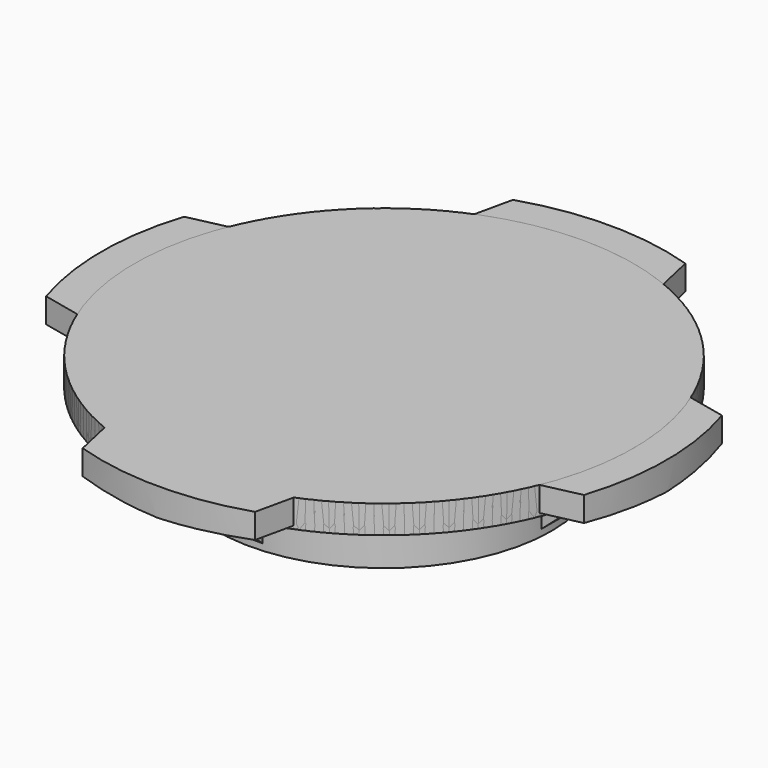
from build123d import *

# Parameters (mm, degrees)
F1_DEPTH   = 1.75
F2_R       = 10.5
F3_DEPTH   = 4.5
F4_SIZE2   = 5
F4_SIZE    = 0.2
F4_2_SIZE2 = 5
F4_2_SIZE  = 0.2
F6_DEPTH   = 0.75
F7_COUNT   = 4
F8_COUNT   = 4


with BuildPart() as f1:
    # F0 (on Top) → F1 (new body)
    with BuildSketch(Plane.XY):
        with BuildLine():
            ThreePointArc((14.4847600256, -5.9257258628), (15.3559271032, -3.0196030865), (15.65, 0))
            ThreePointArc((15.65, 0), (15.3559271032, 3.0196030865), (14.4847600256, 5.9257258628))
            ThreePointArc((14.4847600256, 5.9257258628), (-15.65, 0), (14.4847600256, -5.9257258628))
        make_face()
        with BuildLine():
            ThreePointArc((14.4847600256, 5.9257258628), (15.3559271032, 3.0196030865), (15.65, 0))
            ThreePointArc((15.65, 0), (15.3559271032, -3.0196030865), (14.4847600256, -5.9257258628))
            Line((14.4847600256, -5.9257258628), (16.8561561455, -5.4))
            ThreePointArc((16.8561561455, -5.4), (17.7, 0), (16.8561561455, 5.4))
            Line((16.8561561455, 5.4), (14.4847600256, 5.9257258628))
        make_face()
    extrude(amount=F1_DEPTH)

    # F4
    f4_edges = [f1.edges().sort_by_distance(p)[0] for p in [
        (15.670458, 5.662863, 0),
    ]]
    f4_side = f1.faces().sort_by_distance((15.670458, 5.662863, 0.875))[0]
    chamfer(f4_edges, length=F4_SIZE, length2=F4_SIZE2, reference=f4_side)

    # F4#2
    f4_2_edges = [f1.edges().sort_by_distance(p)[0] for p in [
        (15.670458, -5.662863, 0),
    ]]
    f4_2_side = f1.faces().sort_by_distance((15.670458, -5.662863, 0.875))[0]
    chamfer(f4_2_edges, length=F4_2_SIZE, length2=F4_2_SIZE2, reference=f4_2_side)


with BuildPart() as f3:
    # F2 (on face) → F3 (new body)
    with BuildSketch(Plane(origin=(0, 0, 0), x_dir=(1, 0, 0), z_dir=(0, 0, -1))):
        Circle(F2_R)
    extrude(amount=F3_DEPTH)


with BuildPart() as f6:
    # F5 (on Front) → F6 (new body, symmetric)
    with BuildSketch(Plane.XZ):
        Polygon((15.15, 0), (10, 0), (10, -4.5), align=None)
    extrude(amount=F6_DEPTH, both=True)


with BuildPart() as f7_1:
    # F7: instance of F6
    add(f6.part.rotate(Axis((0, 0, 0), (0, 0, 1)), 1 * 360 / F7_COUNT))


with BuildPart() as f7_2:
    # F7: instance of F6
    add(f6.part.rotate(Axis((0, 0, 0), (0, 0, 1)), 2 * 360 / F7_COUNT))


with BuildPart() as f7_3:
    # F7: instance of F6
    add(f6.part.rotate(Axis((0, 0, 0), (0, 0, 1)), 3 * 360 / F7_COUNT))


with BuildPart() as f8_1:
    # F8: instance of F1
    add(f1.part.rotate(Axis((0, 0, 0), (0, 0, 1)), 1 * 360 / F8_COUNT))


with BuildPart() as f8_2:
    # F8: instance of F1
    add(f1.part.rotate(Axis((0, 0, 0), (0, 0, 1)), 2 * 360 / F8_COUNT))


with BuildPart() as f8_3:
    # F8: instance of F1
    add(f1.part.rotate(Axis((0, 0, 0), (0, 0, 1)), 3 * 360 / F8_COUNT))


solid = Compound([f1.part, f3.part, f6.part, f7_1.part, f7_2.part, f7_3.part, f8_1.part, f8_2.part, f8_3.part])
